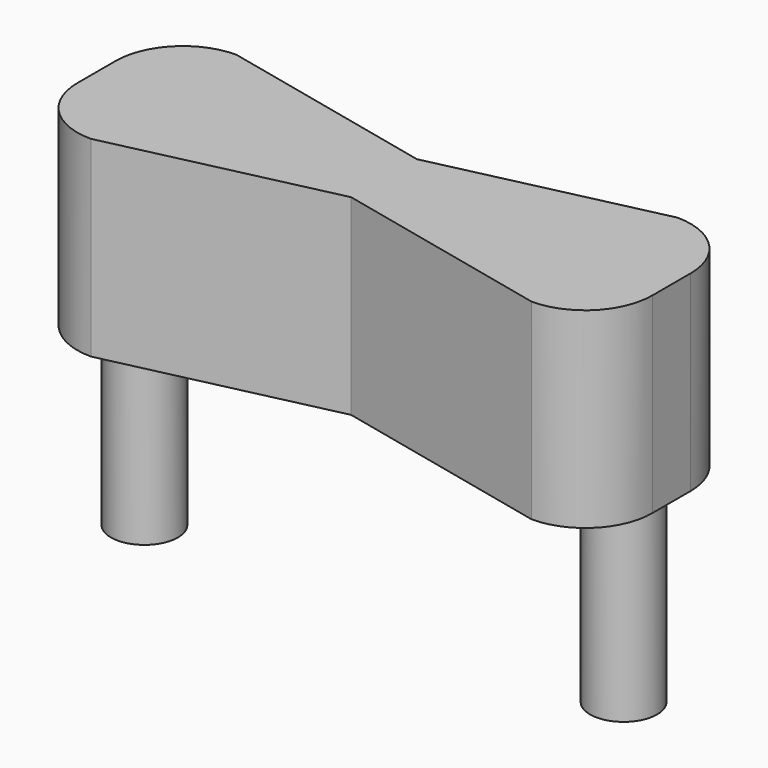
from build123d import *

# Parameters (mm, degrees)
F0_W     = 76.200001
F0_H     = 24.130002
F1_DEPTH = 25.4
F2_R     = 8.89
F4_DEPTH = 25.4
F5_R     = 4.445
F6_DEPTH = 25.4


with BuildPart() as f1:
    # F0 (on Top) → F1 (new body)
    with BuildSketch(Plane.XY):
        with Locations((-3.386665, 12.065001)):
            Rectangle(F0_W, F0_H)
    extrude(amount=F1_DEPTH)

    # F2
    f2_edges = [f1.edges().sort_by_distance(p)[0] for p in [
        (-41.486666, 24.130002, 12.7),
        (34.713335, 24.130002, 12.7),
        (-41.486666, 0, 12.7),
        (34.713335, 0, 12.7),
    ]]
    fillet(f2_edges, radius=F2_R)

    # F3 (on face) → F4 (cut)
    with BuildSketch(Plane.XY.offset(25.4)):
        Polygon((25.823335, 24.130002), (-32.596666, 24.130002), (-3.386665, 17.516416), align=None)
        Polygon((25.823335, 0), (-3.386665, 6.613586), (-32.596666, 0), align=None)
    extrude(amount=-F4_DEPTH, mode=Mode.SUBTRACT)

    # F5 (on face) → F6 (join)
    with BuildSketch(Plane(origin=(0, 0, 0), x_dir=(1, 0, 0), z_dir=(0, 0, -1))):
        with BuildLine():
            ThreePointArc((-30.691666, -12.065001), (-35.136666, -7.620001), (-39.581666, -12.065001))
            ThreePointArc((-39.581666, -12.065001), (-35.136666, -16.510001), (-30.691666, -12.065001))
        make_face()
        with Locations((28.363335, -12.065001)):
            Circle(F5_R)
    extrude(amount=F6_DEPTH)


solid = f1.part
